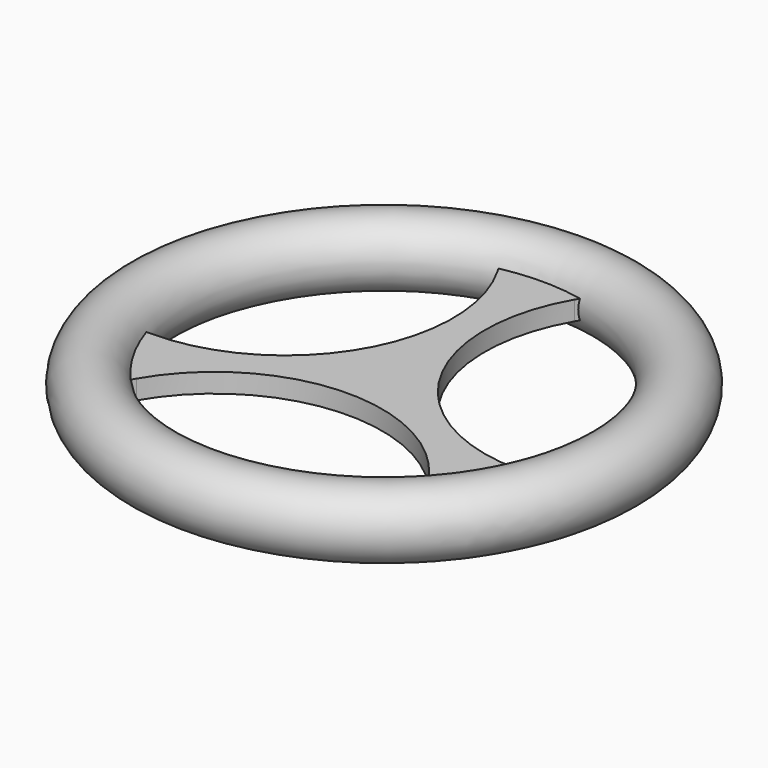
from build123d import *

# Parameters (mm, degrees)
F2_DEPTH      = 6.35
F2_DEPTH_BACK = 6.35
F1_R          = 22.225


with BuildPart() as f2:
    # F0 (on Top) → F2 (new body, two sides)
    with BuildSketch(Plane.XY) as f2_sk:
        with BuildLine():
            Line((25.4, 125.56362), (38.1, 147.560665))
            ThreePointArc((38.1, 147.560665), (0, 152.4), (-38.1, 147.560665))
            Line((-38.1, 147.560665), (-25.4, 125.56362))
            ThreePointArc((-25.4, 125.56362), (-25.4, 14.664697), (-121.441285, -40.784765))
            Line((-121.441285, -40.784765), (-146.841285, -40.784765))
            ThreePointArc((-146.841285, -40.784765), (-131.982272, -76.2), (-108.741285, -106.775901))
            Line((-108.741285, -106.775901), (-96.041285, -84.778855))
            ThreePointArc((-96.041285, -84.778855), (0, -29.329394), (96.041285, -84.778855))
            Line((96.041285, -84.778855), (108.741285, -106.775901))
            ThreePointArc((108.741285, -106.775901), (131.982272, -76.2), (146.841285, -40.784765))
            Line((146.841285, -40.784765), (121.441285, -40.784765))
            ThreePointArc((121.441285, -40.784765), (25.4, 14.664697), (25.4, 125.56362))
        make_face()
    extrude(amount=F2_DEPTH)
    extrude(f2_sk.sketch, amount=-F2_DEPTH_BACK)

    # F3: sweep along a path in F0
    with BuildLine(Plane.XY) as f3_path:
        CenterArc((0, 0), 152.4, 0, 360)
    # F1 (on Right) → F3 (sweep)
    with BuildSketch(Plane.YZ):
        with Locations((152.4, 0)):
            Circle(F1_R)
    sweep(path=f3_path.line)


solid = f2.part
